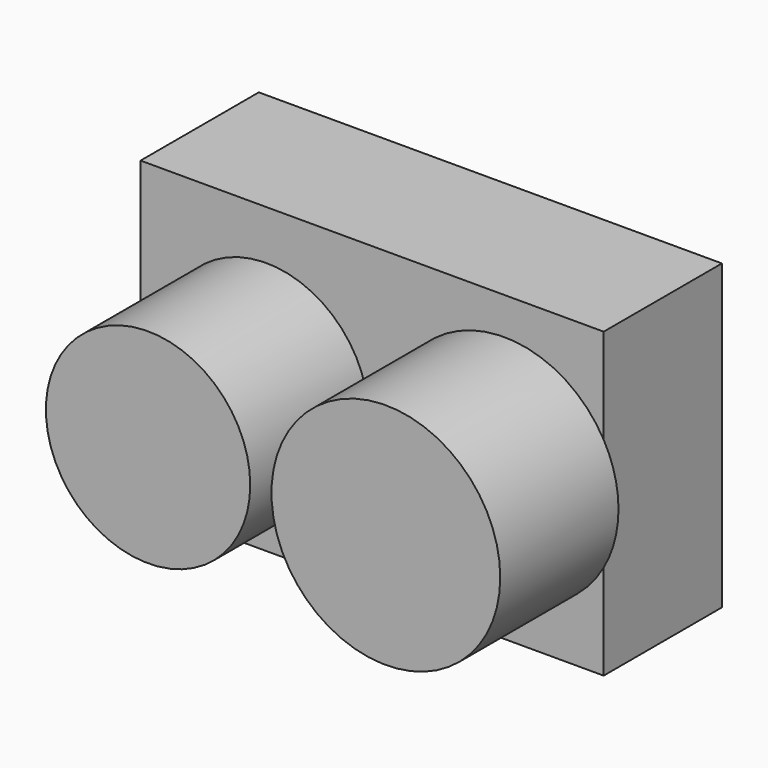
from build123d import *

# Parameters (mm, degrees)
F0_W     = 79.5864835382
F0_H     = 52.0435199142
F1_DEPTH = 12.7
F2_R     = 19.6570457416
F2_R_2   = 17.5585400789
F3_DEPTH = 25.4


with BuildPart() as f1:
    # F0 (on Front) → F1 (new body, symmetric)
    with BuildSketch(Plane.XZ):
        Rectangle(F0_W, F0_H)
    extrude(amount=F1_DEPTH, both=True)

    # F2 (on face) → F3 (join)
    with BuildSketch(Plane.XZ.offset(12.7)):
        with Locations((22.6829834282, 0)):
            Circle(F2_R)
        with Locations((-18.1834697723, 0)):
            Circle(F2_R_2)
    extrude(amount=F3_DEPTH)


solid = f1.part
